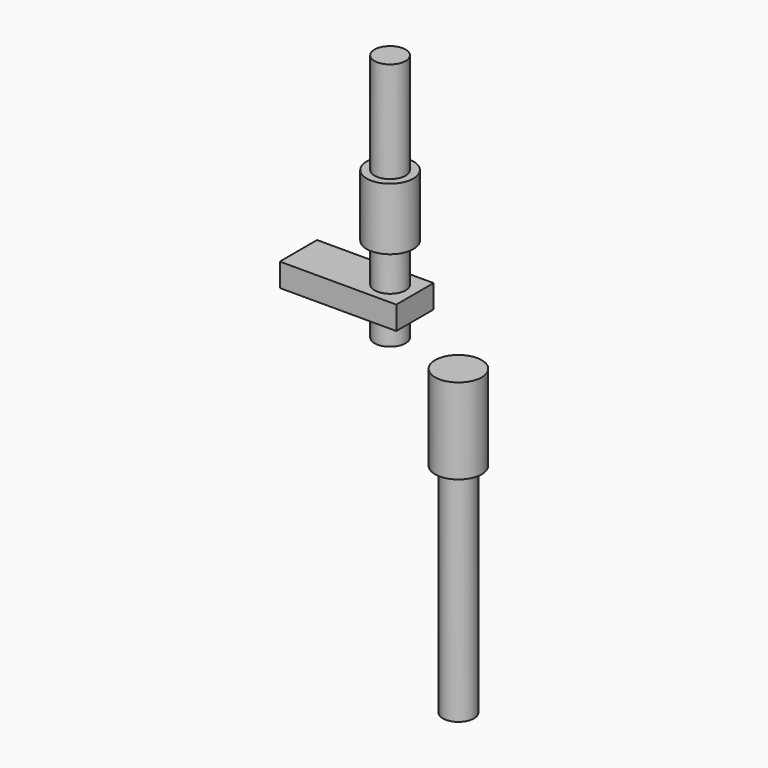
from build123d import *

# Parameters (mm, degrees)
CYLINDER070_R     = 3
CYLINDER070_DEPTH = 11
CYLINDER069_R     = 2
CYLINDER069_DEPTH = 29
CYLINDER060_R     = 3
CYLINDER060_DEPTH = 8
BOX021_W          = 15
BOX021_H          = 6
BOX021_DEPTH      = 3
CYLINDER068_R     = 1.5
CYLINDER068_DEPTH = 25
CYLINDER067_R     = 2
CYLINDER067_DEPTH = 32


with BuildPart() as cylinder070:
    # Cylinder070 → Cylinder070 (new body)
    with BuildSketch(Plane(origin=(45, 21, -6), x_dir=(1, 0, 0), z_dir=(0, 0, 1))):
        Circle(CYLINDER070_R)
    extrude(amount=CYLINDER070_DEPTH)


with BuildPart() as obj1:
    # Cylinder069 → Cylinder069 (new body)
    with BuildSketch(Plane(origin=(45, 21, -34), x_dir=(1, 0, 0), z_dir=(0, 0, 1))):
        Circle(CYLINDER069_R)
    extrude(amount=CYLINDER069_DEPTH)

    # Fusion051: union Cylinder070
    add(cylinder070.part)


with BuildPart() as obj1_1:
    # Fusion051 placement: moved
    add(obj1.part.moved(Location((-9, -33, 24))))


with BuildPart() as cylinder060:
    # Cylinder060 → Cylinder060 (new body)
    with BuildSketch(Plane(origin=(0, 22, 18), x_dir=(1, 0, 0), z_dir=(0, 0, 1))):
        Circle(CYLINDER060_R)
    extrude(amount=CYLINDER060_DEPTH)


with BuildPart() as cube018:
    # Box021 → Box021 (new body)
    with BuildSketch(Plane(origin=(58.2, 67, 3), x_dir=(1, 0, 0), z_dir=(0, 0, 1))):
        with Locations((7.5, 3)):
            Rectangle(BOX021_W, BOX021_H)
    extrude(amount=BOX021_DEPTH)


with BuildPart() as cylinder068:
    # Cylinder068 → Cylinder068 (new body)
    with BuildSketch(Plane(origin=(70, 70, 7), x_dir=(1, 0, 0), z_dir=(0, 0, 1))):
        Circle(CYLINDER068_R)
    extrude(amount=CYLINDER068_DEPTH)


with BuildPart() as fusion054:
    # Cylinder067 → Cylinder067 (new body)
    with BuildSketch(Plane(origin=(70, 70, 0), x_dir=(1, 0, 0), z_dir=(0, 0, 1))):
        Circle(CYLINDER067_R)
    extrude(amount=CYLINDER067_DEPTH)

    # Fusion048: union Cube018, Cylinder068
    add(cube018.part)
    add(cylinder068.part)


with BuildPart() as fusion054_1:
    # Fusion048 placement: moved
    add(fusion054.part.moved(Location((-70, -48, 7))))

    # Fusion050: union Cylinder060
    add(cylinder060.part)

    # Fusion054: union obj1
    add(obj1_1.part)


solid = fusion054_1.part
